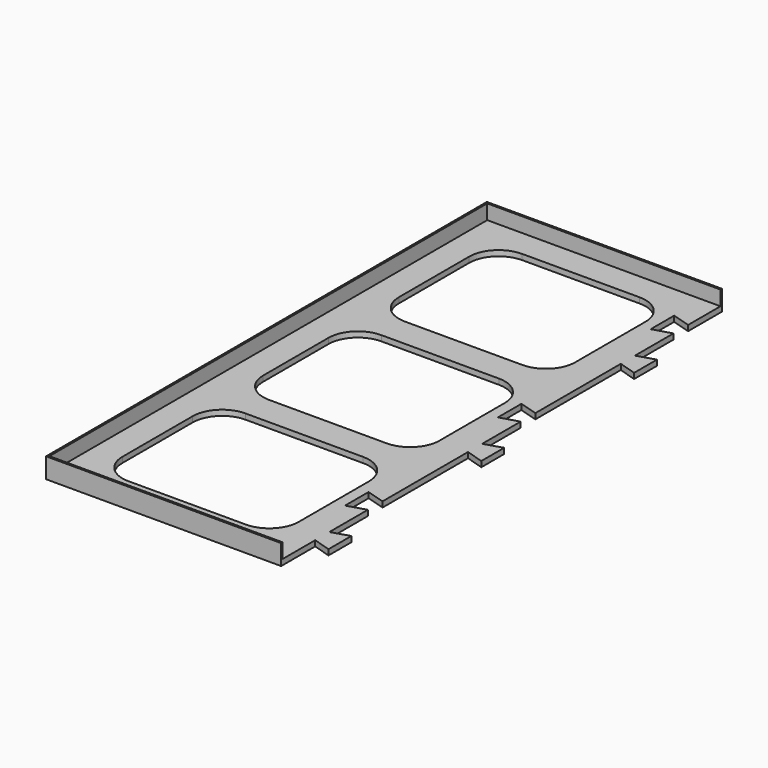
from build123d import *

# Parameters (mm, degrees)
F1_DEPTH = 1.5
F2_W     = 48
F2_H     = 39.9
F2_H_2   = 38.2
F3_DEPTH = 1.501
F4_R     = 8
F6_DEPTH = 4


with BuildPart() as f1:
    # F0 (on Top) → F1 (new body)
    with BuildSketch(Plane.XY):
        Polygon((0, 150), (0, 0), (64, 0), (64, 11.6), (68.8, 10.1), (68.8, 17.9), (64, 16.4), (64, 29.5), (59, 28), (59, 36), (64, 34.5), (64, 63.6), (68.8, 62.1), (68.8, 69.9), (64, 68.4), (64, 81.5), (59, 80), (59, 88), (64, 86.5), (64, 115.6), (68.8, 114.1), (68.8, 121.9), (64, 120.4), (64, 133.5), (59, 132), (59, 140), (64, 138.5), (64, 150), align=None)
    extrude(amount=F1_DEPTH)

    # F2 (on face) → F3 (cut, through all)
    with BuildSketch(Plane.XY.offset(1.5)):
        with Locations((32, 122.05)):
            Rectangle(F2_W, F2_H)
        with Locations((32, 75)):
            Rectangle(F2_W, F2_H_2)
        with Locations((32, 27.95)):
            Rectangle(F2_W, F2_H)
    extrude(amount=-F3_DEPTH, mode=Mode.SUBTRACT)

    # F4
    f4_edges = [f1.edges().sort_by_distance(p)[0] for p in [
        (8, 142, 0.75),
        (8, 94.1, 0.75),
        (8, 47.9, 0.75),
        (56, 142, 0.75),
        (56, 94.1, 0.75),
        (56, 47.9, 0.75),
        (56, 102.1, 0.75),
        (56, 55.9, 0.75),
        (56, 8, 0.75),
        (8, 8, 0.75),
        (8, 55.9, 0.75),
        (8, 102.1, 0.75),
    ]]
    fillet(f4_edges, radius=F4_R)

    # F5 (on face) → F6 (join)
    with BuildSketch(Plane.XY.offset(1.5)):
        Polygon((64, 149.5), (64, 150), (0, 150), (0, 0), (64, 0), (64, 0.5), (0.5, 0.5), (0.5, 149.5), align=None)
    extrude(amount=F6_DEPTH)


solid = f1.part
